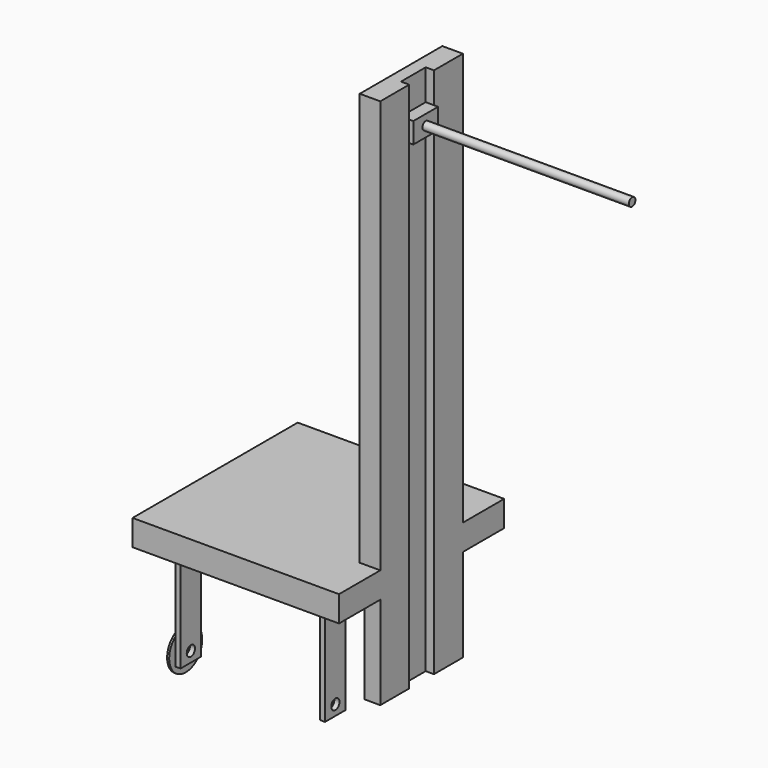
from build123d import *

# Parameters (mm, degrees)
F0_W      = 200
F0_H      = 200
F1_DEPTH  = 25
F2_W      = 5
F2_H      = 25
F3_DEPTH  = 100
F4_R      = 5
F5_DEPTH  = 172.501
F6_R      = 5
F7_DEPTH  = 172.501
F8_W      = 15.3645351529
F8_H      = 100
F9_DEPTH  = 90
F10_W     = 19.893091172
F10_H     = 100
F11_DEPTH = 400
F12_W     = 30
F12_H     = 515
F13_DEPTH = 8
F14_W     = 30
F14_H     = 20.0178325176
F15_DEPTH = 12
F16_R     = 4
F17_DEPTH = 200
F18_R     = 20
F19_DEPTH = 2


with BuildPart() as f1:
    # F0 (on Top) → F1 (new body)
    with BuildSketch(Plane.XY):
        with Locations((-100, 100)):
            Rectangle(F0_W, F0_H)
    extrude(amount=F1_DEPTH)

    # F2 (on face) → F3 (join)
    with BuildSketch(Plane(origin=(0, 0, 0), x_dir=(1, 0, 0), z_dir=(0, 0, -1))):
        with Locations((-170, -30)):
            Rectangle(F2_W, F2_H)
        with Locations((-30, -30)):
            Rectangle(F2_W, F2_H)
        with Locations((-30, -170)):
            Rectangle(F2_W, F2_H)
        with Locations((-170, -170)):
            Rectangle(F2_W, F2_H)
    extrude(amount=F3_DEPTH)

    # F4 (on face) → F5 (cut, through all)
    with BuildSketch(Plane(origin=(-172.5, 0, 0), x_dir=(0, -1, 0), z_dir=(-1, 0, 0))):
        with Locations((-30, -90)):
            Circle(F4_R)
    extrude(amount=-F5_DEPTH, mode=Mode.SUBTRACT)

    # F6 (on face) → F7 (cut, through all)
    with BuildSketch(Plane(origin=(-172.5, 0, 0), x_dir=(0, -1, 0), z_dir=(-1, 0, 0))):
        with Locations((-170, -90)):
            Circle(F6_R)
    extrude(amount=-F7_DEPTH, mode=Mode.SUBTRACT)

    # F8 (on face) → F9 (join)
    with BuildSketch(Plane(origin=(0, 0, 0), x_dir=(1, 0, 0), z_dir=(0, 0, -1))):
        with Locations((-7.6822675765, -100)):
            Rectangle(F8_W, F8_H)
    extrude(amount=F9_DEPTH)

    # F10 (on face) → F11 (join)
    with BuildSketch(Plane.XY.offset(25)):
        with Locations((-9.946545586, 100)):
            Rectangle(F10_W, F10_H)
    extrude(amount=F11_DEPTH)

    # F12 (on face) → F13 (cut)
    with BuildSketch(Plane.YZ):
        with Locations((100, 167.5)):
            Rectangle(F12_W, F12_H)
    extrude(amount=-F13_DEPTH, mode=Mode.SUBTRACT)


with BuildPart() as f15:
    # F14 (on face) → F15 (new body)
    with BuildSketch(Plane.YZ.offset(-8)):
        with Locations((100, 385.243371129)):
            Rectangle(F14_W, F14_H)
    extrude(amount=F15_DEPTH)

    # F16 (on face) → F17 (join)
    with BuildSketch(Plane.YZ.offset(4)):
        with Locations((100, 385.243371129)):
            Circle(F16_R)
    extrude(amount=F17_DEPTH)


with BuildPart() as f19:
    # F18 (on face) → F19 (new body)
    with BuildSketch(Plane(origin=(-172.5, 0, 0), x_dir=(0, -1, 0), z_dir=(-1, 0, 0))):
        with Locations((-30, -90)):
            Circle(F18_R)
    extrude(amount=F19_DEPTH)


solid = Compound([f1.part, f15.part, f19.part])
